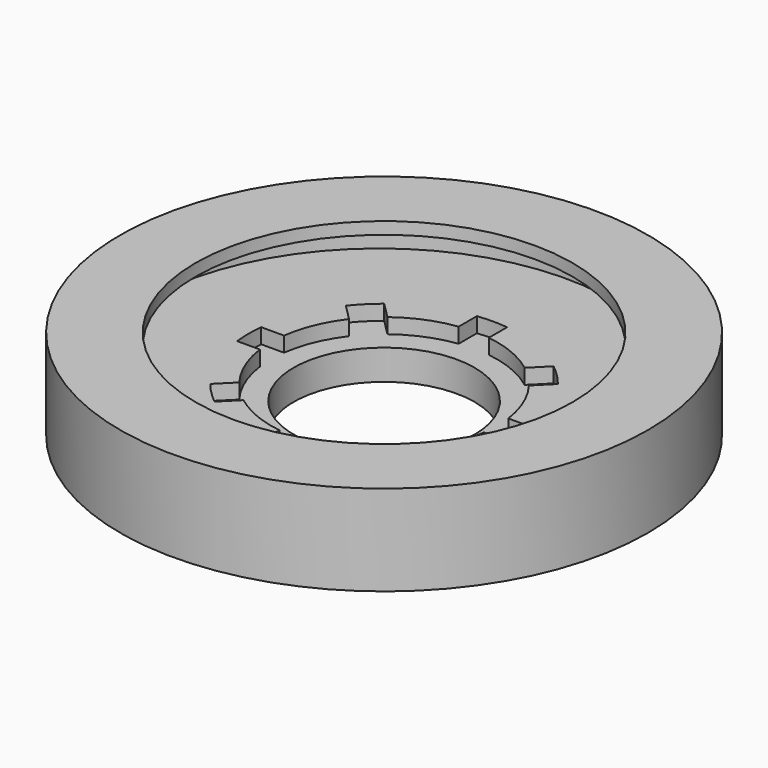
from build123d import *

# Parameters (mm, degrees)
F0_R     = 87.5
F0_R_2   = 30
F1_DEPTH = 10
F2_R     = 87.5
F2_R_2   = 37.5
F3_DEPTH = 5
F5_DEPTH = 5
F6_R     = 87.5
F6_R_2   = 62.5
F7_DEPTH = 15
F8_R     = 77.5
F9_DEPTH = 11


with BuildPart() as f1:
    # F0 (on Top) → F1 (new body)
    with BuildSketch(Plane.XY):
        Circle(F0_R)
        Circle(F0_R_2, mode=Mode.SUBTRACT)
    extrude(amount=F1_DEPTH)

    # F2 (on face) → F3 (join)
    with BuildSketch(Plane.XY.offset(10)):
        Circle(F2_R)
        Circle(F2_R_2, mode=Mode.SUBTRACT)
    extrude(amount=F3_DEPTH)

    # F4 (on face) → F5 (cut)
    with BuildSketch(Plane.XY.offset(15)):
        with BuildLine():
            ThreePointArc((-29.815278958, 22.7442111461), (-26.5165042945, 26.5165042945), (-22.7442111461, 29.815278958))
            Line((-22.7442111461, 29.815278958), (-28.0872426958, 35.1583105076))
            ThreePointArc((-28.0872426958, 35.1583105076), (-31.8198051534, 31.8198051534), (-35.1583105076, 28.0872426958))
            Line((-35.1583105076, 28.0872426958), (-29.815278958, 22.7442111461))
        make_face()
        with BuildLine():
            Line((-5, 44.72135955), (-5, 37.1651718683))
            ThreePointArc((-5, 37.1651718683), (0, 37.5), (5, 37.1651718683))
            Line((5, 37.1651718683), (5, 44.72135955))
            ThreePointArc((5, 44.72135955), (0, 45), (-5, 44.72135955))
        make_face()
        with BuildLine():
            Line((28.0872426958, 35.1583105076), (22.7442111461, 29.815278958))
            ThreePointArc((22.7442111461, 29.815278958), (26.5165042945, 26.5165042945), (29.815278958, 22.7442111461))
            Line((29.815278958, 22.7442111461), (35.1583105076, 28.0872426958))
            ThreePointArc((35.1583105076, 28.0872426958), (31.8198051534, 31.8198051534), (28.0872426958, 35.1583105076))
        make_face()
        with BuildLine():
            Line((44.72135955, 5), (37.1651718683, 5))
            ThreePointArc((37.1651718683, 5), (37.4161993331, 2.5055992236), (37.5, 0))
            ThreePointArc((37.5, 0), (37.4161993331, -2.5055992236), (37.1651718683, -5))
            Line((37.1651718683, -5), (44.72135955, -5))
            ThreePointArc((44.72135955, -5), (44.9302858869, -2.5038790157), (45, 0))
            ThreePointArc((45, 0), (44.9302858869, 2.5038790157), (44.72135955, 5))
        make_face()
        with BuildLine():
            Line((35.1583105076, -28.0872426958), (29.815278958, -22.7442111461))
            ThreePointArc((29.815278958, -22.7442111461), (26.5165042945, -26.5165042945), (22.7442111461, -29.815278958))
            Line((22.7442111461, -29.815278958), (28.0872426958, -35.1583105076))
            ThreePointArc((28.0872426958, -35.1583105076), (31.8198051534, -31.8198051534), (35.1583105076, -28.0872426958))
        make_face()
        with BuildLine():
            ThreePointArc((5, -37.1651718683), (0, -37.5), (-5, -37.1651718683))
            Line((-5, -37.1651718683), (-5, -44.72135955))
            ThreePointArc((-5, -44.72135955), (0, -45), (5, -44.72135955))
            Line((5, -44.72135955), (5, -37.1651718683))
        make_face()
        with BuildLine():
            ThreePointArc((-22.7442111461, -29.815278958), (-26.5165042945, -26.5165042945), (-29.815278958, -22.7442111461))
            Line((-29.815278958, -22.7442111461), (-35.1583105076, -28.0872426958))
            ThreePointArc((-35.1583105076, -28.0872426958), (-31.8198051534, -31.8198051534), (-28.0872426958, -35.1583105076))
            Line((-28.0872426958, -35.1583105076), (-22.7442111461, -29.815278958))
        make_face()
        with BuildLine():
            ThreePointArc((-37.1651718683, -5), (-37.5, 0), (-37.1651718683, 5))
            Line((-37.1651718683, 5), (-44.72135955, 5))
            ThreePointArc((-44.72135955, 5), (-45, 0), (-44.72135955, -5))
            Line((-44.72135955, -5), (-37.1651718683, -5))
        make_face()
    extrude(amount=-F5_DEPTH, mode=Mode.SUBTRACT)

    # F6 (on face) → F7 (join)
    with BuildSketch(Plane.XY.offset(15)):
        Circle(F6_R)
        Circle(F6_R_2, mode=Mode.SUBTRACT)
    extrude(amount=F7_DEPTH)

    # F8 (on face) → F9 (cut)
    with BuildSketch(Plane.XY.offset(15)):
        with Locations((0, -1.9303644706)):
            Circle(F8_R)
    extrude(amount=F9_DEPTH, mode=Mode.SUBTRACT)


solid = f1.part
